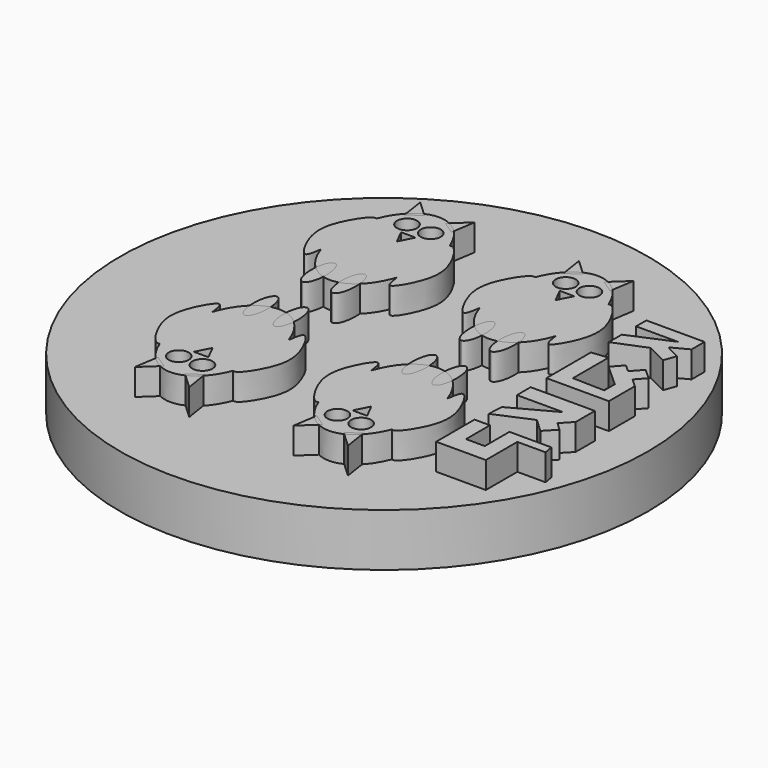
from build123d import *

# Parameters (mm, degrees)
F0_R      = 50
F1_DEPTH  = 10
F4_DEPTH  = 15
F5_DEPTH  = 15
F7_R      = 1.8997039612
F8_DEPTH  = 5
F10_DEPTH = 5
F12_DEPTH = 15


with BuildPart() as f1:
    # F0 (on Top) → F1 (new body)
    with BuildSketch(Plane.XY):
        Circle(F0_R)
    extrude(amount=F1_DEPTH)

    # F2 (on Top) → F4 (join)
    with BuildSketch(Plane.XY):
        with BuildLine():
            add(Edge.make_bspline(
                [(-7.8238925006, 12.8355720658), (-8.3899690366, 16.7667002396), (-9.3008024056, 24.8222402324), (-8.0698690581, 25.637055381)],
                knots=[0.712674087, 0.712674087, 0.712674087, 0.712674087, 1, 1, 1, 1], degree=3))
            add(Edge.make_bspline(
                [(-8.0698690581, 25.637055381), (-10.4599978645, 31.7873357752), (-15.0311719626, 31.7873357752)],
                knots=[2.1210104738, 2.1210104738, 2.1210104738, 3.1415926536, 3.1415926536, 3.1415926536], degree=2, weights=[1, 0.8726023672, 1]))
            Line((-15.0311719626, 31.7873357752), (-15.0311719626, 6.007034429))
            add(Edge.make_bspline(
                [(-15.0311719626, 6.007034429), (-10.1290995417, 6.007034429), (-7.8238925006, 12.8355720658)],
                knots=[0, 0, 0, 1.0812205645, 1.0812205645, 1.0812205645], degree=2, weights=[1, 0.8573947536, 1]))
        make_face()
        with BuildLine():
            add(Edge.make_bspline(
                [(-8.0698690581, 25.637055381), (-7.2718835024, 26.1652811541), (-3.6849993843, 20.853296443), (-3.3782543649, 15.407582492), (-7.1097626517, 8.7711664129), (-7.5603712655, 11.005544347), (-7.8238925006, 12.8355720658)],
                knots=[0, 0, 0, 0, 0.1862667291, 0.3934520388, 0.5789174752, 0.712674087, 0.712674087, 0.712674087, 0.712674087], degree=3))
            add(Edge.make_bspline(
                [(-7.8238925006, 12.8355720658), (-5.6255898304, 19.3474351015), (-8.0698690581, 25.637055381)],
                knots=[1.0812205645, 1.0812205645, 1.0812205645, 2.1210104738, 2.1210104738, 2.1210104738], degree=2, weights=[1, 0.8678713699, 1]))
        make_face()
        with BuildLine():
            add(Edge.make_bspline(
                [(-7.8238925006, 12.8355720658), (-5.6255898304, 19.3474351015), (-8.0698690581, 25.637055381)],
                knots=[1.0812205645, 1.0812205645, 1.0812205645, 2.1210104738, 2.1210104738, 2.1210104738], degree=2, weights=[1, 0.8678713699, 1]))
            add(Edge.make_bspline(
                [(-7.8238925006, 12.8355720658), (-8.3899690366, 16.7667002396), (-9.3008024056, 24.8222402324), (-8.0698690581, 25.637055381)],
                knots=[0.712674087, 0.712674087, 0.712674087, 0.712674087, 1, 1, 1, 1], degree=3))
        make_face()
        with BuildLine():
            Line((-15.0311719626, 6.007034429), (-15.0311719626, 31.7873357752))
            add(Edge.make_bspline(
                [(-15.0311719626, 31.7873357752), (-19.6023460607, 31.7873357752), (-21.9924748671, 25.637055381)],
                knots=[3.1415926536, 3.1415926536, 3.1415926536, 4.1621748334, 4.1621748334, 4.1621748334], degree=2, weights=[1, 0.8726023672, 1]))
            add(Edge.make_bspline(
                [(-22.2384514246, 12.8355720658), (-21.6723748886, 16.7667002396), (-20.7615415197, 24.8222402324), (-21.9924748671, 25.637055381)],
                knots=[0.712674087, 0.712674087, 0.712674087, 0.712674087, 1, 1, 1, 1], degree=3))
            add(Edge.make_bspline(
                [(-22.2384514246, 12.8355720658), (-19.9332443836, 6.007034429), (-15.0311719626, 6.007034429)],
                knots=[5.2019647426, 5.2019647426, 5.2019647426, 6.2831853072, 6.2831853072, 6.2831853072], degree=2, weights=[1, 0.8573947536, 1]))
        make_face()
        with BuildLine():
            add(Edge.make_bspline(
                [(-22.2384514246, 12.8355720658), (-21.6723748886, 16.7667002396), (-20.7615415197, 24.8222402324), (-21.9924748671, 25.637055381)],
                knots=[0.712674087, 0.712674087, 0.712674087, 0.712674087, 1, 1, 1, 1], degree=3))
            add(Edge.make_bspline(
                [(-21.9924748671, 25.637055381), (-24.4367540948, 19.3474351015), (-22.2384514246, 12.8355720658)],
                knots=[4.1621748334, 4.1621748334, 4.1621748334, 5.2019647426, 5.2019647426, 5.2019647426], degree=2, weights=[1, 0.8678713699, 1]))
        make_face()
        with BuildLine():
            add(Edge.make_bspline(
                [(-21.9924748671, 25.637055381), (-24.4367540948, 19.3474351015), (-22.2384514246, 12.8355720658)],
                knots=[4.1621748334, 4.1621748334, 4.1621748334, 5.2019647426, 5.2019647426, 5.2019647426], degree=2, weights=[1, 0.8678713699, 1]))
            add(Edge.make_bspline(
                [(-21.9924748671, 25.637055381), (-22.7904604228, 26.1652811541), (-26.377344541, 20.853296443), (-26.6840895603, 15.407582492), (-22.9525812736, 8.7711664129), (-22.5019726597, 11.005544347), (-22.2384514246, 12.8355720658)],
                knots=[0, 0, 0, 0, 0.1862667291, 0.3934520388, 0.5789174752, 0.712674087, 0.712674087, 0.712674087, 0.712674087], degree=3))
        make_face()
        with BuildLine():
            add(Edge.make_bspline(
                [(22.2384514246, 12.8355720658), (21.6723748886, 16.7667002396), (20.7615415197, 24.8222402324), (21.9924748671, 25.637055381)],
                knots=[0.712674087, 0.712674087, 0.712674087, 0.712674087, 1, 1, 1, 1], degree=3))
            add(Edge.make_bspline(
                [(21.9924748671, 25.637055381), (19.6023460607, 31.7873357752), (15.0311719626, 31.7873357752)],
                knots=[2.1210104738, 2.1210104738, 2.1210104738, 3.1415926536, 3.1415926536, 3.1415926536], degree=2, weights=[1, 0.8726023672, 1]))
            Line((15.0311719626, 31.7873357752), (15.0311719626, 6.007034429))
            add(Edge.make_bspline(
                [(15.0311719626, 6.007034429), (19.9332443836, 6.007034429), (22.2384514246, 12.8355720658)],
                knots=[0, 0, 0, 1.0812205645, 1.0812205645, 1.0812205645], degree=2, weights=[1, 0.8573947536, 1]))
        make_face()
        with BuildLine():
            add(Edge.make_bspline(
                [(21.9924748671, 25.637055381), (22.7904604228, 26.1652811541), (26.377344541, 20.853296443), (26.6840895603, 15.407582492), (22.9525812736, 8.7711664129), (22.5019726597, 11.005544347), (22.2384514246, 12.8355720658)],
                knots=[0, 0, 0, 0, 0.1862667291, 0.3934520388, 0.5789174752, 0.712674087, 0.712674087, 0.712674087, 0.712674087], degree=3))
            add(Edge.make_bspline(
                [(22.2384514246, 12.8355720658), (24.4367540948, 19.3474351015), (21.9924748671, 25.637055381)],
                knots=[1.0812205645, 1.0812205645, 1.0812205645, 2.1210104738, 2.1210104738, 2.1210104738], degree=2, weights=[1, 0.8678713699, 1]))
        make_face()
        with BuildLine():
            add(Edge.make_bspline(
                [(22.2384514246, 12.8355720658), (24.4367540948, 19.3474351015), (21.9924748671, 25.637055381)],
                knots=[1.0812205645, 1.0812205645, 1.0812205645, 2.1210104738, 2.1210104738, 2.1210104738], degree=2, weights=[1, 0.8678713699, 1]))
            add(Edge.make_bspline(
                [(22.2384514246, 12.8355720658), (21.6723748886, 16.7667002396), (20.7615415197, 24.8222402324), (21.9924748671, 25.637055381)],
                knots=[0.712674087, 0.712674087, 0.712674087, 0.712674087, 1, 1, 1, 1], degree=3))
        make_face()
        with BuildLine():
            Line((15.0311719626, 6.007034429), (15.0311719626, 31.7873357752))
            add(Edge.make_bspline(
                [(15.0311719626, 31.7873357752), (10.4599978645, 31.7873357752), (8.0698690581, 25.637055381)],
                knots=[3.1415926536, 3.1415926536, 3.1415926536, 4.1621748334, 4.1621748334, 4.1621748334], degree=2, weights=[1, 0.8726023672, 1]))
            add(Edge.make_bspline(
                [(7.8238925006, 12.8355720658), (8.3899690366, 16.7667002396), (9.3008024056, 24.8222402324), (8.0698690581, 25.637055381)],
                knots=[0.712674087, 0.712674087, 0.712674087, 0.712674087, 1, 1, 1, 1], degree=3))
            add(Edge.make_bspline(
                [(7.8238925006, 12.8355720658), (10.1290995417, 6.007034429), (15.0311719626, 6.007034429)],
                knots=[5.2019647426, 5.2019647426, 5.2019647426, 6.2831853072, 6.2831853072, 6.2831853072], degree=2, weights=[1, 0.8573947536, 1]))
        make_face()
        with BuildLine():
            add(Edge.make_bspline(
                [(7.8238925006, 12.8355720658), (8.3899690366, 16.7667002396), (9.3008024056, 24.8222402324), (8.0698690581, 25.637055381)],
                knots=[0.712674087, 0.712674087, 0.712674087, 0.712674087, 1, 1, 1, 1], degree=3))
            add(Edge.make_bspline(
                [(8.0698690581, 25.637055381), (5.6255898304, 19.3474351015), (7.8238925006, 12.8355720658)],
                knots=[4.1621748334, 4.1621748334, 4.1621748334, 5.2019647426, 5.2019647426, 5.2019647426], degree=2, weights=[1, 0.8678713699, 1]))
        make_face()
        with BuildLine():
            add(Edge.make_bspline(
                [(8.0698690581, 25.637055381), (5.6255898304, 19.3474351015), (7.8238925006, 12.8355720658)],
                knots=[4.1621748334, 4.1621748334, 4.1621748334, 5.2019647426, 5.2019647426, 5.2019647426], degree=2, weights=[1, 0.8678713699, 1]))
            add(Edge.make_bspline(
                [(8.0698690581, 25.637055381), (7.2718835024, 26.1652811541), (3.6849993843, 20.853296443), (3.3782543649, 15.407582492), (7.1097626517, 8.7711664129), (7.5603712655, 11.005544347), (7.8238925006, 12.8355720658)],
                knots=[0, 0, 0, 0, 0.1862667291, 0.3934520388, 0.5789174752, 0.712674087, 0.712674087, 0.712674087, 0.712674087], degree=3))
        make_face()
        with BuildLine():
            add(Edge.make_bspline(
                [(-22.2384514246, -12.8355720658), (-21.6723748886, -16.7667002396), (-20.7615415197, -24.8222402324), (-21.9924748671, -25.637055381)],
                knots=[0.712674087, 0.712674087, 0.712674087, 0.712674087, 1, 1, 1, 1], degree=3))
            add(Edge.make_bspline(
                [(-21.9924748671, -25.637055381), (-19.6023460607, -31.7873357752), (-15.0311719626, -31.7873357752)],
                knots=[2.1210104738, 2.1210104738, 2.1210104738, 3.1415926536, 3.1415926536, 3.1415926536], degree=2, weights=[1, 0.8726023672, 1]))
            Line((-15.0311719626, -31.7873357752), (-15.0311719626, -6.007034429))
            add(Edge.make_bspline(
                [(-15.0311719626, -6.007034429), (-19.9332443836, -6.007034429), (-22.2384514246, -12.8355720658)],
                knots=[0, 0, 0, 1.0812205645, 1.0812205645, 1.0812205645], degree=2, weights=[1, 0.8573947536, 1]))
        make_face()
        with BuildLine():
            add(Edge.make_bspline(
                [(-21.9924748671, -25.637055381), (-22.7904604228, -26.1652811541), (-26.377344541, -20.853296443), (-26.6840895603, -15.407582492), (-22.9525812736, -8.7711664129), (-22.5019726597, -11.005544347), (-22.2384514246, -12.8355720658)],
                knots=[0, 0, 0, 0, 0.1862667291, 0.3934520388, 0.5789174752, 0.712674087, 0.712674087, 0.712674087, 0.712674087], degree=3))
            add(Edge.make_bspline(
                [(-22.2384514246, -12.8355720658), (-24.4367540948, -19.3474351015), (-21.9924748671, -25.637055381)],
                knots=[1.0812205645, 1.0812205645, 1.0812205645, 2.1210104738, 2.1210104738, 2.1210104738], degree=2, weights=[1, 0.8678713699, 1]))
        make_face()
        with BuildLine():
            add(Edge.make_bspline(
                [(-22.2384514246, -12.8355720658), (-24.4367540948, -19.3474351015), (-21.9924748671, -25.637055381)],
                knots=[1.0812205645, 1.0812205645, 1.0812205645, 2.1210104738, 2.1210104738, 2.1210104738], degree=2, weights=[1, 0.8678713699, 1]))
            add(Edge.make_bspline(
                [(-22.2384514246, -12.8355720658), (-21.6723748886, -16.7667002396), (-20.7615415197, -24.8222402324), (-21.9924748671, -25.637055381)],
                knots=[0.712674087, 0.712674087, 0.712674087, 0.712674087, 1, 1, 1, 1], degree=3))
        make_face()
        with BuildLine():
            Line((-15.0311719626, -6.007034429), (-15.0311719626, -31.7873357752))
            add(Edge.make_bspline(
                [(-15.0311719626, -31.7873357752), (-10.4599978645, -31.7873357752), (-8.0698690581, -25.637055381)],
                knots=[3.1415926536, 3.1415926536, 3.1415926536, 4.1621748334, 4.1621748334, 4.1621748334], degree=2, weights=[1, 0.8726023672, 1]))
            add(Edge.make_bspline(
                [(-7.8238925006, -12.8355720658), (-8.3899690366, -16.7667002396), (-9.3008024056, -24.8222402324), (-8.0698690581, -25.637055381)],
                knots=[0.712674087, 0.712674087, 0.712674087, 0.712674087, 1, 1, 1, 1], degree=3))
            add(Edge.make_bspline(
                [(-7.8238925006, -12.8355720658), (-10.1290995417, -6.007034429), (-15.0311719626, -6.007034429)],
                knots=[5.2019647426, 5.2019647426, 5.2019647426, 6.2831853072, 6.2831853072, 6.2831853072], degree=2, weights=[1, 0.8573947536, 1]))
        make_face()
        with BuildLine():
            add(Edge.make_bspline(
                [(-7.8238925006, -12.8355720658), (-8.3899690366, -16.7667002396), (-9.3008024056, -24.8222402324), (-8.0698690581, -25.637055381)],
                knots=[0.712674087, 0.712674087, 0.712674087, 0.712674087, 1, 1, 1, 1], degree=3))
            add(Edge.make_bspline(
                [(-8.0698690581, -25.637055381), (-5.6255898304, -19.3474351015), (-7.8238925006, -12.8355720658)],
                knots=[4.1621748334, 4.1621748334, 4.1621748334, 5.2019647426, 5.2019647426, 5.2019647426], degree=2, weights=[1, 0.8678713699, 1]))
        make_face()
        with BuildLine():
            add(Edge.make_bspline(
                [(-8.0698690581, -25.637055381), (-5.6255898304, -19.3474351015), (-7.8238925006, -12.8355720658)],
                knots=[4.1621748334, 4.1621748334, 4.1621748334, 5.2019647426, 5.2019647426, 5.2019647426], degree=2, weights=[1, 0.8678713699, 1]))
            add(Edge.make_bspline(
                [(-8.0698690581, -25.637055381), (-7.2718835024, -26.1652811541), (-3.6849993843, -20.853296443), (-3.3782543649, -15.407582492), (-7.1097626517, -8.7711664129), (-7.5603712655, -11.005544347), (-7.8238925006, -12.8355720658)],
                knots=[0, 0, 0, 0, 0.1862667291, 0.3934520388, 0.5789174752, 0.712674087, 0.712674087, 0.712674087, 0.712674087], degree=3))
        make_face()
        with BuildLine():
            add(Edge.make_bspline(
                [(7.8238925006, -12.8355720658), (5.6255898304, -19.3474351015), (8.0698690581, -25.637055381)],
                knots=[1.0812205645, 1.0812205645, 1.0812205645, 2.1210104738, 2.1210104738, 2.1210104738], degree=2, weights=[1, 0.8678713699, 1]))
            add(Edge.make_bspline(
                [(7.8238925006, -12.8355720658), (8.3899690366, -16.7667002396), (9.3008024056, -24.8222402324), (8.0698690581, -25.637055381)],
                knots=[0.712674087, 0.712674087, 0.712674087, 0.712674087, 1, 1, 1, 1], degree=3))
        make_face()
        with BuildLine():
            add(Edge.make_bspline(
                [(7.8238925006, -12.8355720658), (8.3899690366, -16.7667002396), (9.3008024056, -24.8222402324), (8.0698690581, -25.637055381)],
                knots=[0.712674087, 0.712674087, 0.712674087, 0.712674087, 1, 1, 1, 1], degree=3))
            add(Edge.make_bspline(
                [(8.0698690581, -25.637055381), (10.4599978645, -31.7873357752), (15.0311719626, -31.7873357752)],
                knots=[2.1210104738, 2.1210104738, 2.1210104738, 3.1415926536, 3.1415926536, 3.1415926536], degree=2, weights=[1, 0.8726023672, 1]))
            Line((15.0311719626, -31.7873357752), (15.0311719626, -6.007034429))
            add(Edge.make_bspline(
                [(15.0311719626, -6.007034429), (10.1290995417, -6.007034429), (7.8238925006, -12.8355720658)],
                knots=[0, 0, 0, 1.0812205645, 1.0812205645, 1.0812205645], degree=2, weights=[1, 0.8573947536, 1]))
        make_face()
        with BuildLine():
            add(Edge.make_bspline(
                [(8.0698690581, -25.637055381), (7.2718835024, -26.1652811541), (3.6849993843, -20.853296443), (3.3782543649, -15.407582492), (7.1097626517, -8.7711664129), (7.5603712655, -11.005544347), (7.8238925006, -12.8355720658)],
                knots=[0, 0, 0, 0, 0.1862667291, 0.3934520388, 0.5789174752, 0.712674087, 0.712674087, 0.712674087, 0.712674087], degree=3))
            add(Edge.make_bspline(
                [(7.8238925006, -12.8355720658), (5.6255898304, -19.3474351015), (8.0698690581, -25.637055381)],
                knots=[1.0812205645, 1.0812205645, 1.0812205645, 2.1210104738, 2.1210104738, 2.1210104738], degree=2, weights=[1, 0.8678713699, 1]))
        make_face()
        with BuildLine():
            Line((15.0311719626, -6.007034429), (15.0311719626, -31.7873357752))
            add(Edge.make_bspline(
                [(15.0311719626, -31.7873357752), (19.6023460607, -31.7873357752), (21.9924748671, -25.637055381)],
                knots=[3.1415926536, 3.1415926536, 3.1415926536, 4.1621748334, 4.1621748334, 4.1621748334], degree=2, weights=[1, 0.8726023672, 1]))
            add(Edge.make_bspline(
                [(22.2384514246, -12.8355720658), (21.6723748886, -16.7667002396), (20.7615415197, -24.8222402324), (21.9924748671, -25.637055381)],
                knots=[0.712674087, 0.712674087, 0.712674087, 0.712674087, 1, 1, 1, 1], degree=3))
            add(Edge.make_bspline(
                [(22.2384514246, -12.8355720658), (19.9332443836, -6.007034429), (15.0311719626, -6.007034429)],
                knots=[5.2019647426, 5.2019647426, 5.2019647426, 6.2831853072, 6.2831853072, 6.2831853072], degree=2, weights=[1, 0.8573947536, 1]))
        make_face()
        with BuildLine():
            add(Edge.make_bspline(
                [(22.2384514246, -12.8355720658), (21.6723748886, -16.7667002396), (20.7615415197, -24.8222402324), (21.9924748671, -25.637055381)],
                knots=[0.712674087, 0.712674087, 0.712674087, 0.712674087, 1, 1, 1, 1], degree=3))
            add(Edge.make_bspline(
                [(21.9924748671, -25.637055381), (24.4367540948, -19.3474351015), (22.2384514246, -12.8355720658)],
                knots=[4.1621748334, 4.1621748334, 4.1621748334, 5.2019647426, 5.2019647426, 5.2019647426], degree=2, weights=[1, 0.8678713699, 1]))
        make_face()
        with BuildLine():
            add(Edge.make_bspline(
                [(21.9924748671, -25.637055381), (24.4367540948, -19.3474351015), (22.2384514246, -12.8355720658)],
                knots=[4.1621748334, 4.1621748334, 4.1621748334, 5.2019647426, 5.2019647426, 5.2019647426], degree=2, weights=[1, 0.8678713699, 1]))
            add(Edge.make_bspline(
                [(21.9924748671, -25.637055381), (22.7904604228, -26.1652811541), (26.377344541, -20.853296443), (26.6840895603, -15.407582492), (22.9525812736, -8.7711664129), (22.5019726597, -11.005544347), (22.2384514246, -12.8355720658)],
                knots=[0, 0, 0, 0, 0.1862667291, 0.3934520388, 0.5789174752, 0.712674087, 0.712674087, 0.712674087, 0.712674087], degree=3))
        make_face()
    extrude(amount=F4_DEPTH)

    # F3 (on Top) → F5 (join)
    with BuildSketch(Plane.XY):
        Polygon((-20.1849788427, 33.7972454727), (-19.47013475, 29.2018093169), (-17.0192345977, 30.8357439935), align=None)
        Polygon((-13.0431093276, 30.8357439935), (-10.5922091752, 29.2018093169), (-9.8773650825, 33.7972454727), align=None)
        Polygon((10.5922091752, 29.2018093169), (13.0431093276, 30.8357439935), (9.8773650825, 33.7972454727), align=None)
        Polygon((20.1849788427, 33.7972454727), (17.0192345977, 30.8357439935), (19.47013475, 29.2018093169), align=None)
        Polygon((19.47013475, -29.2018093169), (17.0192345977, -30.8357439935), (20.1849788427, -33.7972454727), align=None)
        Polygon((-20.1849788427, -33.7972454727), (-17.0192345977, -30.8357439935), (-19.47013475, -29.2018093169), align=None)
        Polygon((-10.5922091752, -29.2018093169), (-13.0431093276, -30.8357439935), (-9.8773650825, -33.7972454727), align=None)
        Polygon((9.8773650825, -33.7972454727), (13.0431093276, -30.8357439935), (10.5922091752, -29.2018093169), align=None)
        with BuildLine():
            add(Edge.make_bspline(
                [(-17.8681276739, 3.029338317), (-15.4509355326, 3.029338317), (-16.6595316032, 8.7545668939), (-17.8681276739, 14.4797954708), (-19.0767237445, 8.7545668939), (-20.2853198152, 3.029338317), (-17.8681276739, 3.029338317)],
                knots=[0, 0, 0, 2.0943951024, 2.0943951024, 4.1887902048, 4.1887902048, 6.2831853072, 6.2831853072, 6.2831853072], degree=2, weights=[1, 0.5, 1, 0.5, 1, 0.5, 1]))
        make_face()
        with BuildLine():
            add(Edge.make_bspline(
                [(-12.1942162514, 3.029338317), (-9.7770241101, 3.029338317), (-10.9856201807, 8.7545668939), (-12.1942162514, 14.4797954708), (-13.402812322, 8.7545668939), (-14.6114083927, 3.029338317), (-12.1942162514, 3.029338317)],
                knots=[0, 0, 0, 2.0943951024, 2.0943951024, 4.1887902048, 4.1887902048, 6.2831853072, 6.2831853072, 6.2831853072], degree=2, weights=[1, 0.5, 1, 0.5, 1, 0.5, 1]))
        make_face()
        with BuildLine():
            add(Edge.make_bspline(
                [(12.1942162514, 3.029338317), (14.6114083927, 3.029338317), (13.402812322, 8.7545668939), (12.1942162514, 14.4797954708), (10.9856201807, 8.7545668939), (9.7770241101, 3.029338317), (12.1942162514, 3.029338317)],
                knots=[0, 0, 0, 2.0943951024, 2.0943951024, 4.1887902048, 4.1887902048, 6.2831853072, 6.2831853072, 6.2831853072], degree=2, weights=[1, 0.5, 1, 0.5, 1, 0.5, 1]))
        make_face()
        with BuildLine():
            add(Edge.make_bspline(
                [(17.8681276739, 3.029338317), (20.2853198152, 3.029338317), (19.0767237445, 8.7545668939), (17.8681276739, 14.4797954708), (16.6595316032, 8.7545668939), (15.4509355326, 3.029338317), (17.8681276739, 3.029338317)],
                knots=[0, 0, 0, 2.0943951024, 2.0943951024, 4.1887902048, 4.1887902048, 6.2831853072, 6.2831853072, 6.2831853072], degree=2, weights=[1, 0.5, 1, 0.5, 1, 0.5, 1]))
        make_face()
        with BuildLine():
            add(Edge.make_bspline(
                [(12.1942162514, -3.029338317), (9.7770241101, -3.029338317), (10.9856201807, -8.7545668939), (12.1942162514, -14.4797954708), (13.402812322, -8.7545668939), (14.6114083927, -3.029338317), (12.1942162514, -3.029338317)],
                knots=[0, 0, 0, 2.0943951024, 2.0943951024, 4.1887902048, 4.1887902048, 6.2831853072, 6.2831853072, 6.2831853072], degree=2, weights=[1, 0.5, 1, 0.5, 1, 0.5, 1]))
        make_face()
        with BuildLine():
            add(Edge.make_bspline(
                [(-17.8681276739, -3.029338317), (-20.2853198152, -3.029338317), (-19.0767237445, -8.7545668939), (-17.8681276739, -14.4797954708), (-16.6595316032, -8.7545668939), (-15.4509355326, -3.029338317), (-17.8681276739, -3.029338317)],
                knots=[0, 0, 0, 2.0943951024, 2.0943951024, 4.1887902048, 4.1887902048, 6.2831853072, 6.2831853072, 6.2831853072], degree=2, weights=[1, 0.5, 1, 0.5, 1, 0.5, 1]))
        make_face()
        with BuildLine():
            add(Edge.make_bspline(
                [(-12.1942162514, -3.029338317), (-14.6114083927, -3.029338317), (-13.402812322, -8.7545668939), (-12.1942162514, -14.4797954708), (-10.9856201807, -8.7545668939), (-9.7770241101, -3.029338317), (-12.1942162514, -3.029338317)],
                knots=[0, 0, 0, 2.0943951024, 2.0943951024, 4.1887902048, 4.1887902048, 6.2831853072, 6.2831853072, 6.2831853072], degree=2, weights=[1, 0.5, 1, 0.5, 1, 0.5, 1]))
        make_face()
        with BuildLine():
            add(Edge.make_bspline(
                [(17.8681276739, -3.029338317), (15.4509355326, -3.029338317), (16.6595316032, -8.7545668939), (17.8681276739, -14.4797954708), (19.0767237445, -8.7545668939), (20.2853198152, -3.029338317), (17.8681276739, -3.029338317)],
                knots=[0, 0, 0, 2.0943951024, 2.0943951024, 4.1887902048, 4.1887902048, 6.2831853072, 6.2831853072, 6.2831853072], degree=2, weights=[1, 0.5, 1, 0.5, 1, 0.5, 1]))
        make_face()
    extrude(amount=F5_DEPTH)

    # F7 (on offset) → F8 (cut)
    with BuildSketch(Plane.XY.offset(13)):
        with Locations((-17.276680097, 27.0288083702)):
            Circle(F7_R)
        with Locations((-12.7856638283, 27.0288083702)):
            Circle(F7_R)
        with Locations((17.276680097, 27.0288083702)):
            Circle(F7_R)
        with Locations((12.7856638283, 27.0288083702)):
            Circle(F7_R)
        with Locations((17.276680097, -27.0288083702)):
            Circle(F7_R)
        with Locations((-12.7856638283, -27.0288083702)):
            Circle(F7_R)
        with Locations((12.7856638283, -27.0288083702)):
            Circle(F7_R)
        with Locations((-17.276680097, -27.0288083702)):
            Circle(F7_R)
    extrude(amount=F8_DEPTH, mode=Mode.SUBTRACT)

    # F9 (on offset) → F10 (cut)
    with BuildSketch(Plane.XY.offset(13)):
        Polygon((-15.1327606291, 24.5298631489), (-16.4157658159, 24.5298631489), (-15.0311719626, 21.8183650991), (-13.6465781093, 24.5298631489), (-14.9295832962, 24.5298631489), align=None)
        Polygon((15.0311719626, 21.8183650991), (16.4157658159, 24.5298631489), (15.1327606291, 24.5298631489), (14.9295832962, 24.5298631489), (13.6465781093, 24.5298631489), align=None)
        Polygon((15.1327606291, -24.5298631489), (16.4157658159, -24.5298631489), (15.0311719626, -21.8183650991), (13.6465781093, -24.5298631489), (14.9295832962, -24.5298631489), align=None)
        Polygon((-13.6465781093, -24.5298631489), (-15.0311719626, -21.8183650991), (-16.4157658159, -24.5298631489), (-15.1327606291, -24.5298631489), (-14.9295832962, -24.5298631489), align=None)
    extrude(amount=F10_DEPTH, mode=Mode.SUBTRACT)

    # F11 (on Top) → F12 (join)
    with BuildSketch(Plane.XY):
        Polygon((38.977432996, -17.1758625656), (44.3269535899, -17.1758625656), (44.0027453005, -15.392688103), (36.0595136881, -15.392688103), (36.0595136881, -21.2285295129), (32.4931666255, -21.2285295129), (32.4931666255, -15.5547941104), (29.5752454549, -15.5547941104), (29.5752454549, -24.6327705681), (38.977432996, -24.6327705681), align=None)
        Polygon((38.329012692, -5.5041783489), (30.2236750722, -9.8810596392), (30.0615653396, -12.7989798784), (36.8700474501, -9.8810596392), (39.4452412716, -12.3131894204), (41.4098267249, -10.2330420696), (39.8675655773, -8.7764607296), (41.7332500219, -6.8010319956), (41.7332500219, -2.2620437667), (29.5752454549, -2.2620437667), (29.5752454549, -5.5041783489), align=None)
        Polygon((32.6552763581, 12.327561155), (29.5752454549, 12.0033472776), (29.5752454549, 1.4664108166), (41.409034282, 1.4664108166), (41.409034282, 7.6264659874), (39.787966758, 9.0854270384), (41.409034282, 10.8866128312), (39.3849419225, 12.7082963035), (37.6187840871, 10.7458990844), (36.2216196954, 12.0033472776), (34.4724801285, 10.0598592421), (38.7087500245, 6.2472156056), (38.7087500245, 3.7359048147), (32.6552763581, 3.8980119862), align=None)
        Polygon((29.5752454549, 19.2981511354), (29.5752454549, 16.2181220949), (35.5731956661, 18.6497233808), (39.4637547433, 16.7044419795), (40.2742885053, 18.9739353955), (37.51847893, 20.4328969121), (40.59850052, 22.0539644361), (40.59850052, 25.133991614), (29.5752454549, 25.133991614), (29.5752454549, 22.702390328), (37.51847893, 22.702390328), align=None)
    extrude(amount=F12_DEPTH)


solid = f1.part
